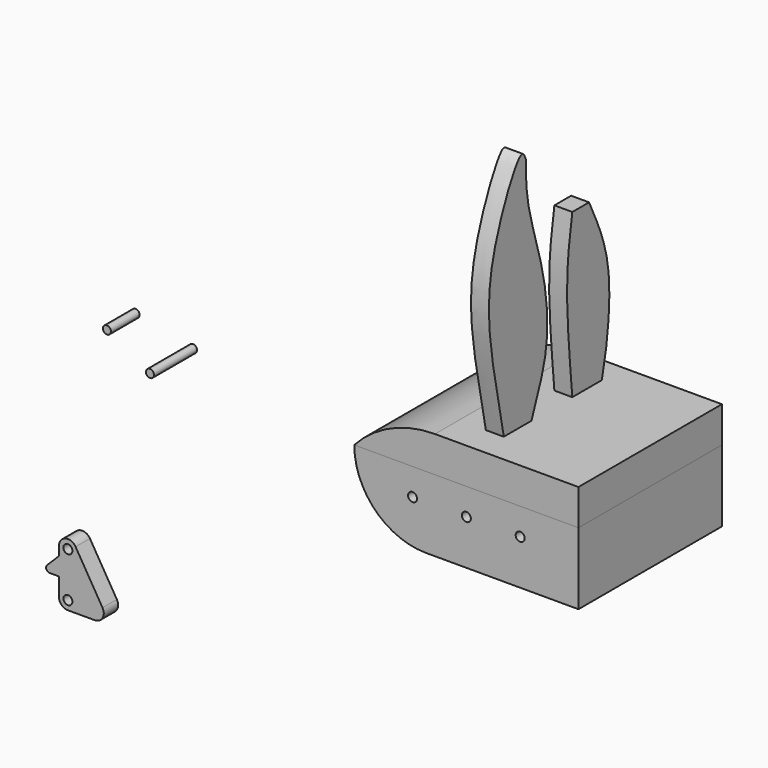
from build123d import *

# Parameters (mm, degrees)
F0_W           = 125
F0_H           = 100
F0_W_2         = 105
F0_H_2         = 80
F1_DEPTH       = 30
F2_R           = 2.5
F3_DEPTH       = 100.001
F4_W           = 125
F4_H           = 100
F4_W_2         = 105
F4_H_2         = 80
F5_DEPTH       = 10
F7_DEPTH       = 6666
F9_DEPTH       = 83.4
F10_W          = 80
F10_H          = 20
F11_DEPTH      = 100
F15_DEPTH      = 10
F17_DEPTH      = 40
F17_DEPTH_BACK = 40
F18_R          = 2.5
F19_DEPTH      = 10
F21_DEPTH      = 10
F22_W          = 11.9066902784
F22_H          = 2
F22_W_2        = 5.1715728753
F22_W_3        = 11.2758645205
F23_DEPTH      = 25
F24_R          = 2.25
F25_DEPTH      = 20
F26_R          = 2.25
F27_DEPTH      = 30


with BuildPart() as f1:
    # F0 (on Top) → F1 (new body)
    with BuildSketch(Plane.XY):
        with Locations((62.5, 50)):
            Rectangle(F0_W, F0_H)
        with Locations((62.5, 50)):
            Rectangle(F0_W_2, F0_H_2, mode=Mode.SUBTRACT)
    extrude(amount=F1_DEPTH)

    # F2 (on face) → F3 (cut, through all)
    with BuildSketch(Plane.XZ):
        with Locations((32.5, 15)):
            Circle(F2_R)
        with Locations((62.5, 15)):
            Circle(F2_R)
        with Locations((92.5, 15)):
            Circle(F2_R)
    extrude(amount=-F3_DEPTH, mode=Mode.SUBTRACT)

    # F4 (on face) → F5 (join)
    with BuildSketch(Plane(origin=(0, 0, 0), x_dir=(1, 0, 0), z_dir=(0, 0, -1))):
        with Locations((62.5, -50)):
            Rectangle(F4_W, F4_H)
        with Locations((62.5, -50)):
            Rectangle(F4_W_2, F4_H_2, mode=Mode.SUBTRACT)
        with Locations((62.5, -50)):
            Rectangle(F4_W_2, F4_H_2)
    extrude(amount=F5_DEPTH)

    # F6 (on face) → F7 (cut)
    with BuildSketch(Plane.XZ):
        Polygon((0, -10), (0, 30), (-36.8616729975, 33.3101339638), (-29.7704413533, -57.1963898838), (40, -10), align=None)
        with BuildLine():
            ThreePointArc((40, -10), (11.7157287525, 1.7157287525), (0, 30))
            Line((0, 30), (0, -10))
            Line((0, -10), (40, -10))
        make_face()
    extrude(amount=-F7_DEPTH, mode=Mode.SUBTRACT)

    # F8 (on face) → F9 (join)
    with BuildSketch(Plane.XZ.offset(-90)):
        with BuildLine():
            Line((10, 30), (10, 3.5424868894))
            ThreePointArc((10, 3.5424868894), (11.7157287525, 1.7157287525), (13.5424868894, 0))
            Line((13.5424868894, 0), (40, 0))
            ThreePointArc((40, 0), (18.7867965644, 8.7867965644), (10, 30))
        make_face()
    extrude(amount=F9_DEPTH)


with BuildPart() as f11:
    # F10 (on face) → F11 (new body)
    with BuildSketch(Plane.XZ):
        with BuildLine():
            Line((0, 30), (45, 30))
            Line((45, 30), (45, 50))
            ThreePointArc((45, 50), (20.3778554955, 44.7748251351), (0, 30))
        make_face()
        with Locations((85, 40)):
            Rectangle(F10_W, F10_H)
    extrude(amount=-F11_DEPTH)

    # F14 (on offset) → F15 (join)
    with BuildSketch(Plane.YZ.offset(60)):
        with BuildLine():
            Line((64.4753500819, 49.8327091336), (85.0027536981, 49.8327091336))
            add(Edge.make_bspline(
                [(85.0027536981, 49.8327091336), (86.1665383789, 54.7384858339), (89.0602060082, 67.0907089545), (92.6809583428, 106.7258604967), (81.6452944269, 129.5412851185), (76.1444941163, 140.9089565277)],
                knots=[0, 0, 0, 0, 0.2505763425, 0.6259139796, 1, 1, 1, 1], degree=3))
            Line((76.1444941163, 140.9089565277), (64.4753500819, 140.9089565277))
            add(Edge.make_bspline(
                [(64.4753500819, 140.9089565277), (63.0385344229, 131.9328773477), (60.0835105921, 113.4722434338), (61.3578321961, 82.6051306794), (63.4232718078, 60.892518239), (64.4753500819, 49.8327091336)],
                knots=[0, 0, 0, 0, 0.3170912381, 0.6521450118, 1, 1, 1, 1], degree=3))
        make_face()
        with BuildLine():
            Line((16.7012212295, 50), (36.0381749595, 50))
            add(Edge.make_bspline(
                [(36.0381749595, 50), (39.9439264096, 60.5788452322), (48.8842587835, 79.1577540087), (45.9418389645, 119.6915304439), (32.2516183868, 155.6878532796), (32.1214988224, 172.4366188097), (32.0729725063, 179.9233108759)],
                knots=[0, 0, 0, 0, 0.2446036002, 0.518483464, 0.7891223984, 1, 1, 1, 1], degree=3))
            add(Edge.make_bspline(
                [(16.7012212295, 50), (12.8164200839, 69.7679192689), (5.1557437253, 103.0165449914), (6.3359006778, 143.1855642768), (28.4164917181, 189.4002776519), (31.3234141752, 181.8729274365), (32.0729725063, 179.9233108759)],
                knots=[0, 0, 0, 0, 0.3260645241, 0.6228520483, 0.9048596934, 1, 1, 1, 1], degree=3))
        make_face()
    extrude(amount=F15_DEPTH)


with BuildPart() as f17_tool:
    # F16 (on offset) → F17 (new body, two sides)
    with BuildSketch(Plane.XZ.offset(-50)) as f17_sk:
        with BuildLine():
            Line((120, 45), (45, 45))
            ThreePointArc((45, 45), (24.5746472766, 41.1142074845), (7.003, 29.9997291191))
            Line((7.003, 29.9997291191), (120, 29.9997291191))
            Line((120, 29.9997291191), (120, 45))
        make_face()
    extrude(amount=-F17_DEPTH)
    extrude(f17_sk.sketch, amount=F17_DEPTH_BACK)


with BuildPart() as f1_1:
    add(f1.part)

    # F17: cut by f17_tool
    add(f17_tool.part, mode=Mode.SUBTRACT)


with BuildPart() as f11_1:
    add(f11.part)

    # F17: cut by f17_tool
    add(f17_tool.part, mode=Mode.SUBTRACT)


with BuildPart() as f19:
    # F18 (on Front) → F19 (new body)
    with BuildSketch(Plane.XZ):
        with BuildLine():
            ThreePointArc((-147.3962509632, -63.8523980975), (-153.0183835013, -61.6063022336), (-156.6837155918, -66.4248768747))
            Line((-156.6837155918, -66.4248768747), (-156.6837155918, -91.4248768747))
            ThreePointArc((-156.6837155918, -91.4248768747), (-155.2192494977, -94.9604107806), (-151.6837155918, -96.4248768747))
            Line((-151.6837155918, -96.4248768747), (-136.6837155918, -96.4248768747))
            ThreePointArc((-136.6837155918, -96.4248768747), (-132.332716058, -93.8883709496), (-132.3962509632, -88.8523980975))
            Line((-132.3962509632, -88.8523980975), (-147.3962509632, -63.8523980975))
        make_face()
        with Locations((-151.6837155918, -91.4248768747)):
            Circle(F18_R, mode=Mode.SUBTRACT)
        with Locations((-151.6837155918, -66.4248768747)):
            Circle(F18_R, mode=Mode.SUBTRACT)
    extrude(amount=F19_DEPTH)

    # F20 (on face) → F21 (join)
    with BuildSketch(Plane.XZ.offset(10)):
        with BuildLine():
            Line((-156.6837155918, -81.4248768747), (-156.6837155918, -71.4248768747))
            Line((-156.6837155918, -71.4248768747), (-163.2695020294, -78.0106633123))
            ThreePointArc((-163.2695020294, -78.0106633123), (-163.7030475321, -80.1902437394), (-161.855288467, -81.4248768747))
            Line((-161.855288467, -81.4248768747), (-156.6837155918, -81.4248768747))
        make_face()
    extrude(amount=-F21_DEPTH)

    # F22 (on face) → F23 (cut)
    with BuildSketch(Plane(origin=(0, 0, -81.4248768747), x_dir=(1, 0, 0), z_dir=(0, 0, -1))):
        with Locations((-167.8086336062, 7)):
            Rectangle(F22_W, F22_H)
        with Locations((-159.2695020294, 3)):
            Rectangle(F22_W_2, F22_H)
        with Locations((-159.2695020294, 7)):
            Rectangle(F22_W_2, F22_H)
        with Locations((-167.4932207273, 3)):
            Rectangle(F22_W_3, F22_H)
    extrude(amount=-F23_DEPTH, mode=Mode.SUBTRACT)


with BuildPart() as f25:
    # F24 (on Front) → F25 (new body)
    with BuildSketch(Plane.XZ):
        with Locations((-121.942281723, 54.9175590277)):
            Circle(F24_R)
    extrude(amount=F25_DEPTH)


with BuildPart() as f27:
    # F26 (on Front) → F27 (new body)
    with BuildSketch(Plane.XZ):
        with Locations((-89.9250730872, 48.0470210314)):
            Circle(F26_R)
    extrude(amount=F27_DEPTH)


solid = Compound([f1_1.part, f11_1.part, f19.part, f25.part, f27.part])
